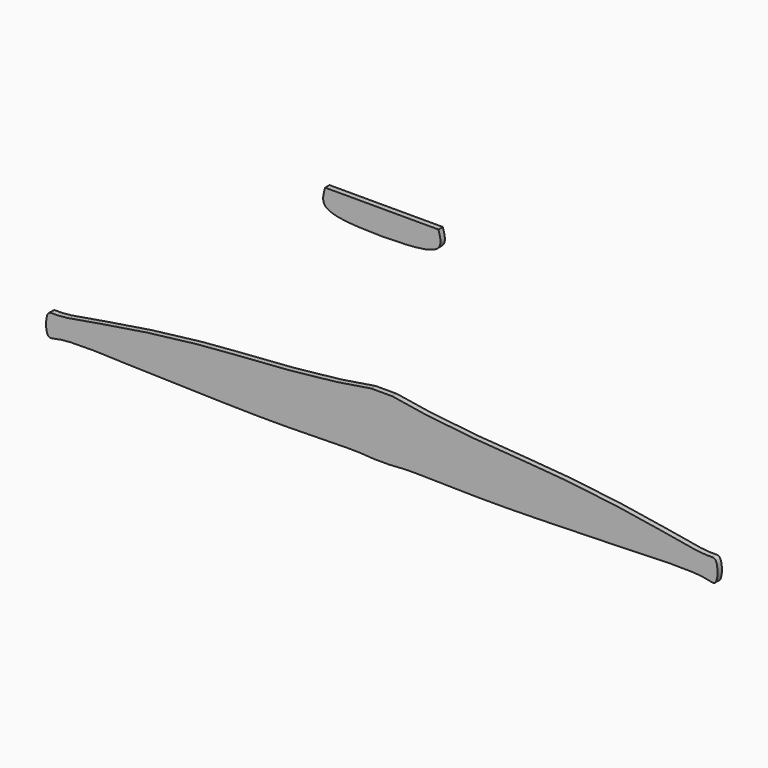
from build123d import *

# Parameters (mm, degrees)
F1_DEPTH = 1.5875


with BuildPart() as f1:
    # F0 (on Front) → F1 (new body)
    with BuildSketch(Plane.XZ):
        with BuildLine():
            add(Edge.make_bspline(
                [(3.0600349419, -3.5161271226), (1.0200116473, -3.5161271226), (-1.0200116473, -3.5161271226), (-3.0600349419, -3.5161271226)],
                knots=[0, 0, 0, 0, 6.1200698838, 6.1200698838, 6.1200698838, 6.1200698838], degree=3))
            add(Edge.make_bspline(
                [(-3.0600349419, -3.5161271226), (-6.1917260425, -4.0659822289), (-13.5881610533, -5.3646312428), (-33.4372283455, -7.2541363794), (-51.1447174928, -8.1147767874), (-77.0713685015, -11.4372194109), (-93.5555743247, -14.9237342294), (-97.2773446817, -13.8931519208), (-97.3353651014, -21.8445089539), (-92.6178604131, -19.3763652616), (-69.2419232124, -20.5737682344), (-50.3445093583, -20.9049026), (-28.3459673203, -21.48374022), (-7.1309585374, -20.6500123432), (-2.7378098571, -21.2799461326), (-0.835847652, -21.2321152147), (0, -21.2110951543)],
                knots=[0, 0, 0, 0, 0.065890056, 0.155619281, 0.2433384132, 0.3494904265, 0.4315592069, 0.4633064675, 0.5108147617, 0.54715821, 0.6445212482, 0.7365370259, 0.8339035097, 0.9265182356, 0.9677072657, 1, 1, 1, 1], degree=3))
            add(Edge.make_bspline(
                [(3.0600349419, -3.5161271226), (6.1917260425, -4.0659822289), (13.5881610533, -5.3646312428), (33.4372283455, -7.2541363794), (51.1447174928, -8.1147767874), (77.0713685015, -11.4372194109), (93.5555743247, -14.9237342294), (97.2773446817, -13.8931519208), (97.3353651014, -21.8445089539), (92.6178604131, -19.3763652616), (69.2419232124, -20.5737682344), (50.3445093583, -20.9049026), (28.3459673203, -21.48374022), (7.1309585374, -20.6500123432), (2.7378098571, -21.2799461326), (0.835847652, -21.2321152147), (0, -21.2110951543)],
                knots=[0, 0, 0, 0, 0.065890056, 0.155619281, 0.2433384132, 0.3494904265, 0.4315592069, 0.4633064675, 0.5108147617, 0.54715821, 0.6445212482, 0.7365370259, 0.8339035097, 0.9265182356, 0.9677072657, 1, 1, 1, 1], degree=3))
        make_face()
    extrude(amount=F1_DEPTH)


with BuildPart() as f1b:
    # F0 (on Front) → F1, piece 2 (new body)
    with BuildSketch(Plane.XZ):
        with BuildLine():
            add(Edge.make_bspline(
                [(-16.3993183523, 43.307479471), (-10.9328789016, 43.307479471), (-5.4664394508, 43.307479471), (0, 43.307479471)],
                knots=[0, 0, 0, 0, 16.3993183523, 16.3993183523, 16.3993183523, 16.3993183523], degree=3))
            add(Edge.make_bspline(
                [(-16.3993183523, 43.307479471), (-16.8984682518, 41.5727860656), (-18.3424359371, 36.5545716499), (-7.2548413904, 36.3580700208), (0, 36.2294949591)],
                knots=[0, 0, 0, 0, 0.3456794114, 1, 1, 1, 1], degree=3))
            add(Edge.make_bspline(
                [(16.3993183523, 43.307479471), (16.8984682518, 41.5727860656), (18.3424359371, 36.5545716499), (7.2548413904, 36.3580700208), (0, 36.2294949591)],
                knots=[0, 0, 0, 0, 0.3456794114, 1, 1, 1, 1], degree=3))
            add(Edge.make_bspline(
                [(16.3993183523, 43.307479471), (10.9328789016, 43.307479471), (5.4664394508, 43.307479471), (0, 43.307479471)],
                knots=[0, 0, 0, 0, 16.3993183523, 16.3993183523, 16.3993183523, 16.3993183523], degree=3))
        make_face()
    extrude(amount=F1_DEPTH)


solid = Compound([f1.part, f1b.part])
